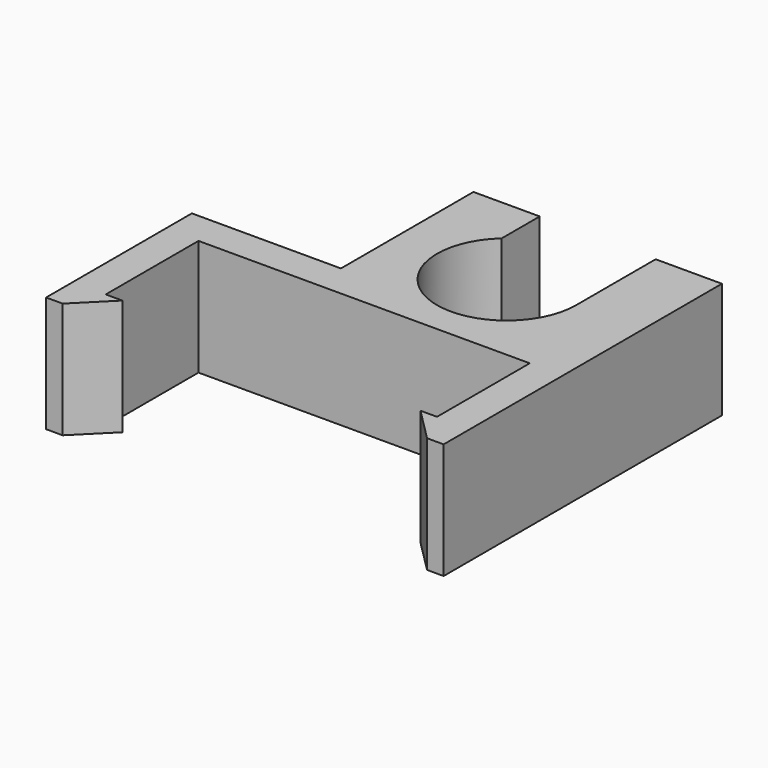
from build123d import *

# Parameters (mm, degrees)
PAD_DEPTH = 7


with BuildPart() as part:
    # Sketch → Pad (new body)
    with BuildSketch(Plane.XY):
        with BuildLine():
            ThreePointArc((-2.8, 3.130495), (-1.714643, -3.834058), (4.2, 0))
            Line((4.2, 6), (4.2, 0))
            Line((4.2, 6), (8.2, 6))
            Line((8.2, 6), (8.2, -15))
            Line((8.2, -15), (7.2, -15))
            Line((7.2, -15), (5.2, -13))
            Line((5.2, -13), (6.2, -13))
            Line((6.2, -13), (6.2, -6))
            Line((6.2, -6), (-13.8, -6))
            Line((-13.8, -6), (-13.8, -13))
            Line((-13.8, -13), (-12.8, -13))
            Line((-12.8, -13), (-14.8, -15))
            Line((-14.8, -15), (-15.8, -15))
            Line((-15.8, -15), (-15.8, -4))
            Line((-15.8, -4), (-6.8, -4))
            Line((-6.8, -4), (-6.8, 6))
            Line((-6.8, 6), (-2.8, 6))
            Line((-2.8, 6), (-2.8, 3.130495))
        make_face()
    extrude(amount=PAD_DEPTH)


solid = part.part
